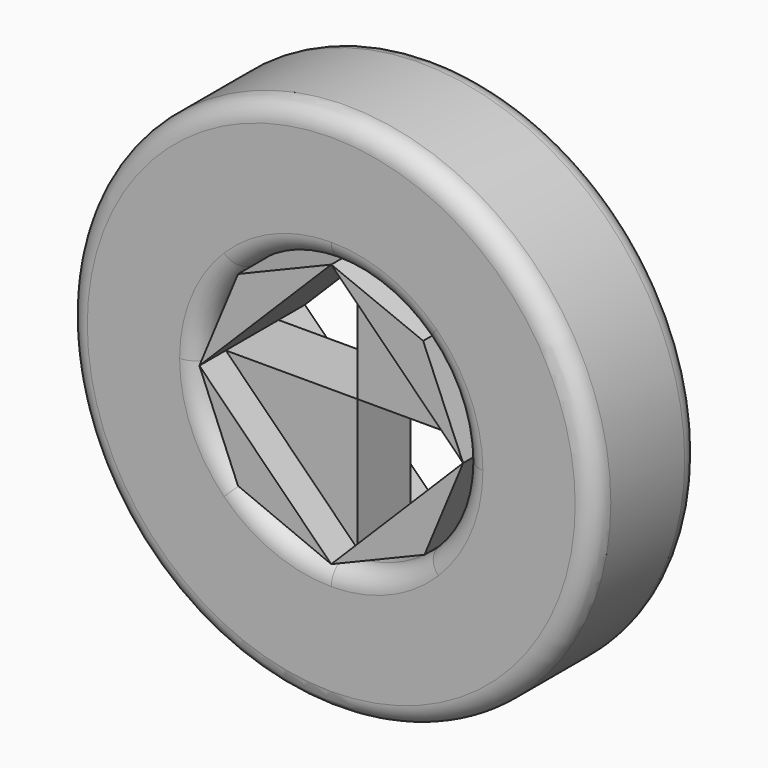
from build123d import *

# Parameters (mm, degrees)
F0_R     = 50.8
F1_DEPTH = 12.7
F2_DEPTH = 6.35
F3_R     = 3.81
F4_DEPTH = 12.7


with BuildPart() as f1:
    # F0 (on Front) → F1 (new body, symmetric)
    with BuildSketch(Plane.XZ):
        Circle(F0_R)
        with BuildLine():
            ThreePointArc((17.700283, 18.217024), (23.396017, 9.888701), (25.4, 0))
            ThreePointArc((25.4, 0), (23.46654, -9.720159), (17.960512, -17.960512))
            ThreePointArc((17.960512, -17.960512), (9.720159, -23.46654), (0, -25.4))
            ThreePointArc((0, -25.4), (-9.720159, -23.46654), (-17.960512, -17.960512))
            ThreePointArc((-17.960512, -17.960512), (-23.46654, -9.720159), (-25.4, 0))
            ThreePointArc((-25.4, 0), (-23.46654, 9.720159), (-17.960512, 17.960512))
            ThreePointArc((-17.960512, 17.960512), (-9.720159, 23.46654), (0, 25.4))
            ThreePointArc((0, 25.4), (9.551115, 23.535849), (17.700283, 18.217024))
        make_face(mode=Mode.SUBTRACT)
    extrude(amount=F1_DEPTH, both=True)

    # F0 (on Front) → F2 (join, symmetric)
    with BuildSketch(Plane.XZ):
        Circle(F0_R)
        with BuildLine():
            ThreePointArc((17.700283, 18.217024), (23.396017, 9.888701), (25.4, 0))
            ThreePointArc((25.4, 0), (23.46654, -9.720159), (17.960512, -17.960512))
            ThreePointArc((17.960512, -17.960512), (9.720159, -23.46654), (0, -25.4))
            ThreePointArc((0, -25.4), (-9.720159, -23.46654), (-17.960512, -17.960512))
            ThreePointArc((-17.960512, -17.960512), (-23.46654, -9.720159), (-25.4, 0))
            ThreePointArc((-25.4, 0), (-23.46654, 9.720159), (-17.960512, 17.960512))
            ThreePointArc((-17.960512, 17.960512), (-9.720159, 23.46654), (0, 25.4))
            ThreePointArc((0, 25.4), (9.551115, 23.535849), (17.700283, 18.217024))
        make_face(mode=Mode.SUBTRACT)
        Polygon((0, 0), (25.4, 0), (12.7, 12.7), align=None)
        Polygon((0, 0), (12.7, 12.7), (0, 25.4), align=None)
        Polygon((-12.7, -12.7), (0, 0), (-25.4, 0), align=None)
        Polygon((0, -25.4), (0, 0), (-12.7, -12.7), align=None)
    extrude(amount=F2_DEPTH, both=True)

    # F3
    f3_edges = [f1.edges().sort_by_distance(p)[0] for p in [
        (-50.8, 12.7, 0),
        (-50.8, -12.7, 0),
        (-23.46654, -12.7, -9.720159),
        (-23.46654, 12.7, 9.720159),
    ]]
    fillet(f3_edges, radius=F3_R)


with BuildPart() as f4:
    # F0 (on Front) → F4 (new body, symmetric)
    with BuildSketch(Plane.XZ):
        Polygon((17.960512, -17.960512), (25.4, 0), (12.7, -12.7), align=None)
        Polygon((0, -25.4), (17.960512, -17.960512), (12.7, -12.7), align=None)
        Polygon((-17.960512, -17.960512), (0, -25.4), (-12.7, -12.7), (-25.4, 0), align=None)
        Polygon((-12.7, 12.7), (0, 25.4), (-17.960512, 17.960512), (-25.4, 0), align=None)
        Polygon((12.7, 12.7), (25.4, 0), (17.700283, 18.217024), (0, 25.4), align=None)
    extrude(amount=F4_DEPTH, both=True)


solid = Compound([f1.part, f4.part])
